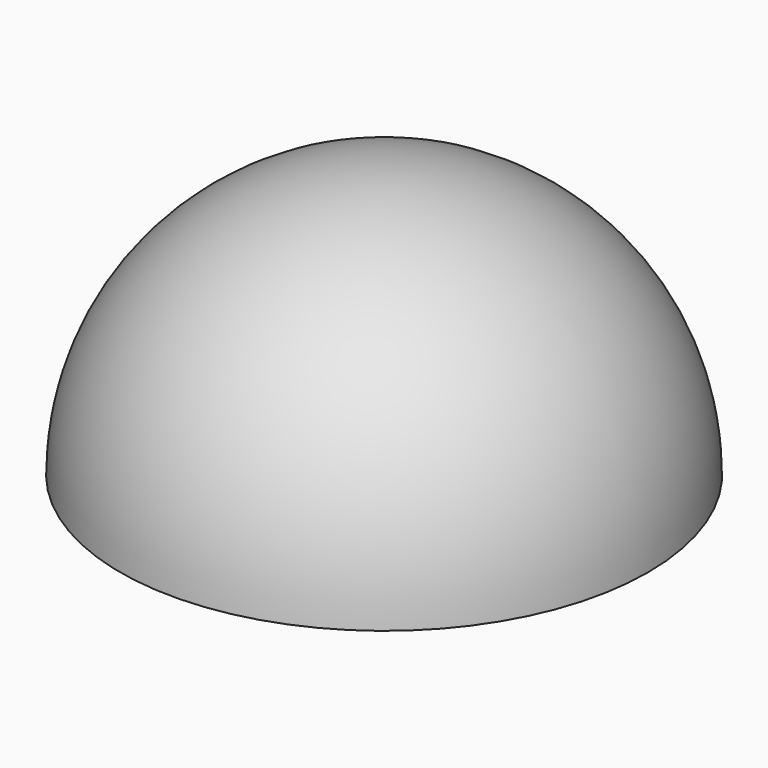
from build123d import *

# Parameters (mm, degrees)
F3_D     = 3.5
F3_DEPTH = 10
F3_TIP   = 1.0515060833


with BuildPart() as f1:
    # F0 (on Front) → F1 (revolve)
    with BuildSketch(Plane.XZ):
        with BuildLine():
            Line((13, 0), (15, 0))
            ThreePointArc((15, 0), (10.6066017178, 10.6066017178), (0, 15))
            Line((0, 15), (0, 0))
            Line((0, 0), (3.5, 0))
            add(Edge.make_bspline(
                [(3.5, 0), (4.1702696251, 7.8465285328), (5.7287519706, 9.922929278), (8.9078926089, 9.0413945543), (11.7718619337, 3.9088492463), (13, 0)],
                knots=[0, 0, 0, 0, 0.4100471471, 0.5883487707, 1, 1, 1, 1], degree=3))
        make_face()
    revolve(axis=Axis((0, 0, 7.5), (0, 0, -1)))

    # F3
    with Locations(Plane(origin=(0, 0, 0), x_dir=(1, 0, 0), z_dir=(0, 0, -1))):
        with Locations((0, 0)):
            Hole(F3_D / 2, depth=F3_DEPTH)
            with Locations((0, 0, -(F3_DEPTH + F3_TIP / 2))):  # 118° drill point
                Cone(0, F3_D / 2, F3_TIP, mode=Mode.SUBTRACT)


solid = f1.part
